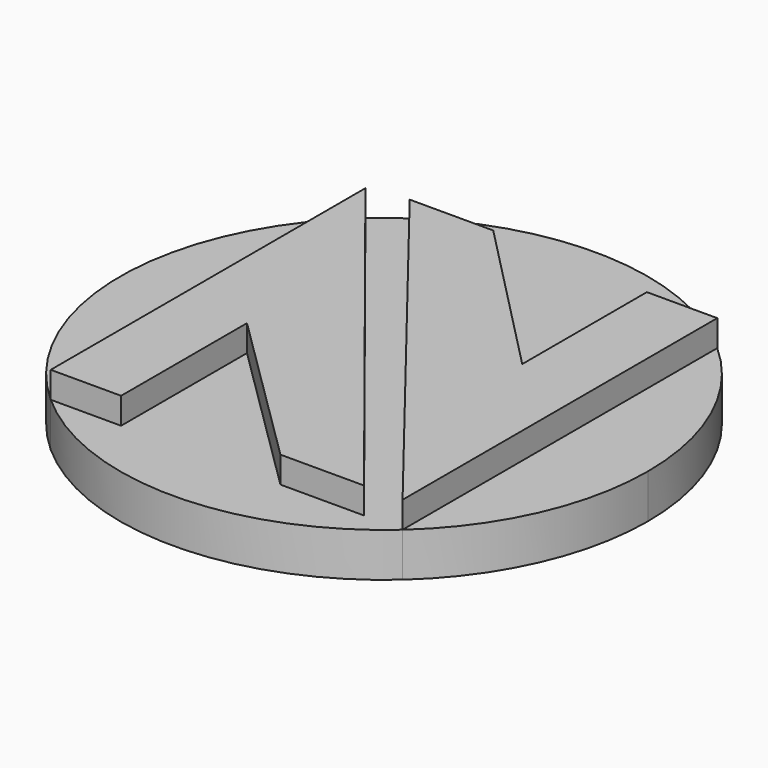
from build123d import *

# Parameters (mm, degrees)
F1_DEPTH = 10.16
F2_DEPTH = 6.35


with BuildPart() as f1:
    # F0 (on Top) → F1 (new body)
    with BuildSketch(Plane.XY):
        Polygon((25.4, -28.398063), (25.4, 28.398063), (15.24, 28.398063), (15.24, 5.900018), (-7.690813, 29.331759), (-19.755813, 29.331759), align=None)
        Polygon((19.829879, -28.398063), (-25.4, 28.398063), (-25.4, -28.398063), (-15.24, -28.398063), (-15.24, -5.681262), (7.764879, -28.398063), align=None)
    extrude(amount=F1_DEPTH)


with BuildPart() as f2:
    # F0 (on Top) → F2 (new body)
    with BuildSketch(Plane.XY):
        with BuildLine():
            Line((15.24, 28.398063), (25.4, 28.398063))
            ThreePointArc((25.4, 28.398063), (0, 38.1), (-25.4, 28.398063))
            Line((-25.4, 28.398063), (19.829879, -28.398063))
            Line((19.829879, -28.398063), (7.764879, -28.398063))
            Line((7.764879, -28.398063), (-15.24, -5.681262))
            Line((-15.24, -5.681262), (-15.24, -28.398063))
            Line((-15.24, -28.398063), (-25.4, -28.398063))
            ThreePointArc((-25.4, -28.398063), (0, -38.1), (25.4, -28.398063))
            Line((25.4, -28.398063), (-19.755813, 29.331759))
            Line((-19.755813, 29.331759), (-7.690813, 29.331759))
            Line((-7.690813, 29.331759), (15.24, 5.900018))
            Line((15.24, 5.900018), (15.24, 28.398063))
        make_face()
        with BuildLine():
            Line((-25.4, -28.398063), (-25.4, 28.398063))
            ThreePointArc((-25.4, 28.398063), (-38.1, 0), (-25.4, -28.398063))
        make_face()
        with BuildLine():
            ThreePointArc((25.4, -28.398063), (34.780382, -15.55426), (38.1, 0))
            ThreePointArc((38.1, 0), (34.780382, 15.55426), (25.4, 28.398063))
            Line((25.4, 28.398063), (25.4, -28.398063))
        make_face()
    extrude(amount=F2_DEPTH)


solid = Compound([f1.part, f2.part])
